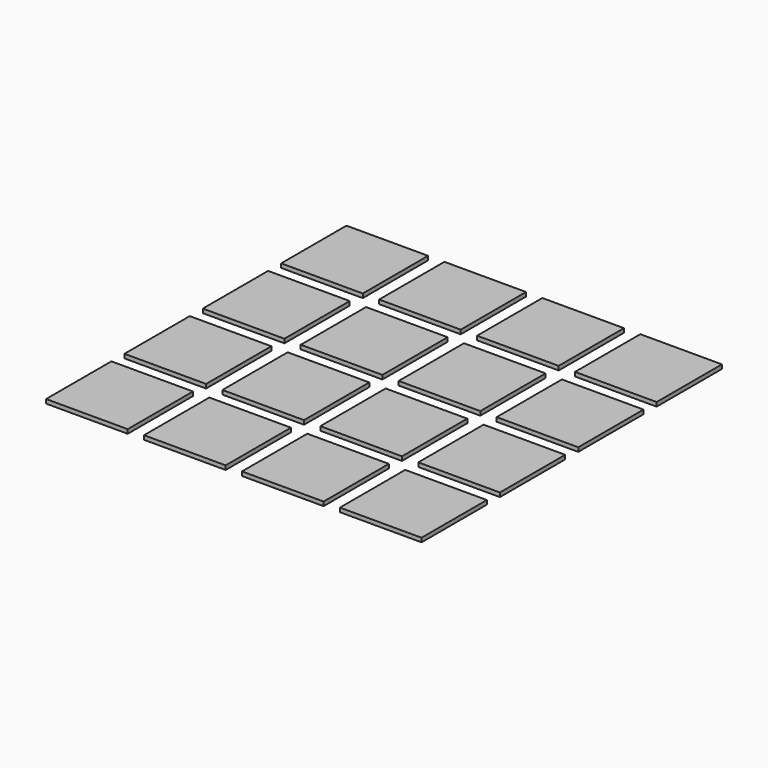
from build123d import *

# Parameters (mm, degrees)
BOX007_W         = 20
BOX007_H         = 20
BOX007_DEPTH     = 1
ARRAY001_X_COUNT = 4
ARRAY001_X_PITCH = 24
ARRAY001_Y_COUNT = 4
ARRAY001_Y_PITCH = 24


with BuildPart() as part:
    # Box007 → Box007 (new body)
    with BuildSketch(Plane.XY.offset(6)):
        with Locations((10, 10)):
            Rectangle(BOX007_W, BOX007_H)
    extrude(amount=BOX007_DEPTH)

    # Array001 X: part ×4


with BuildPart() as part_1:
    add(part.part)
    with Locations(*[(i * ARRAY001_X_PITCH, 0, 0) for i in range(1, ARRAY001_X_COUNT)]):
        add(part.part)

    # Array001 Y: part ×4


with BuildPart() as part_2:
    add(part_1.part)
    with Locations(*[(0, i * ARRAY001_Y_PITCH, 0) for i in range(1, ARRAY001_Y_COUNT)]):
        add(part_1.part)


solid = part_2.part
